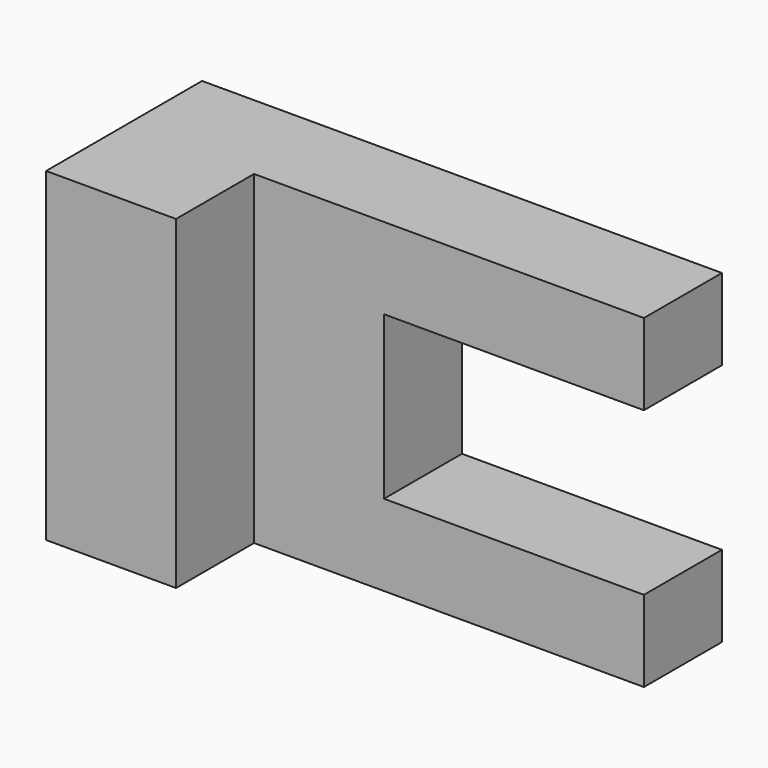
from build123d import *

# Parameters (mm, degrees)
F0_W     = 101.6
F0_H     = 63.5
F1_DEPTH = 19.05
F2_W     = 25.4
F2_H     = 63.5
F3_DEPTH = 19.05
F4_W     = 50.8
F4_H     = 31.75
F5_DEPTH = 25.4


with BuildPart() as f1:
    # F0 (on Front) → F1 (new body)
    with BuildSketch(Plane.XZ):
        Rectangle(F0_W, F0_H)
    extrude(amount=F1_DEPTH)

    # F2 (on face) → F3 (join)
    with BuildSketch(Plane.XZ.offset(19.05)):
        with Locations((-38.1, 0)):
            Rectangle(F2_W, F2_H)
    extrude(amount=F3_DEPTH)

    # F4 (on face) → F5 (cut)
    with BuildSketch(Plane.XZ.offset(19.05)):
        with Locations((25.4, 0)):
            Rectangle(F4_W, F4_H)
    extrude(amount=-F5_DEPTH, mode=Mode.SUBTRACT)


solid = f1.part
